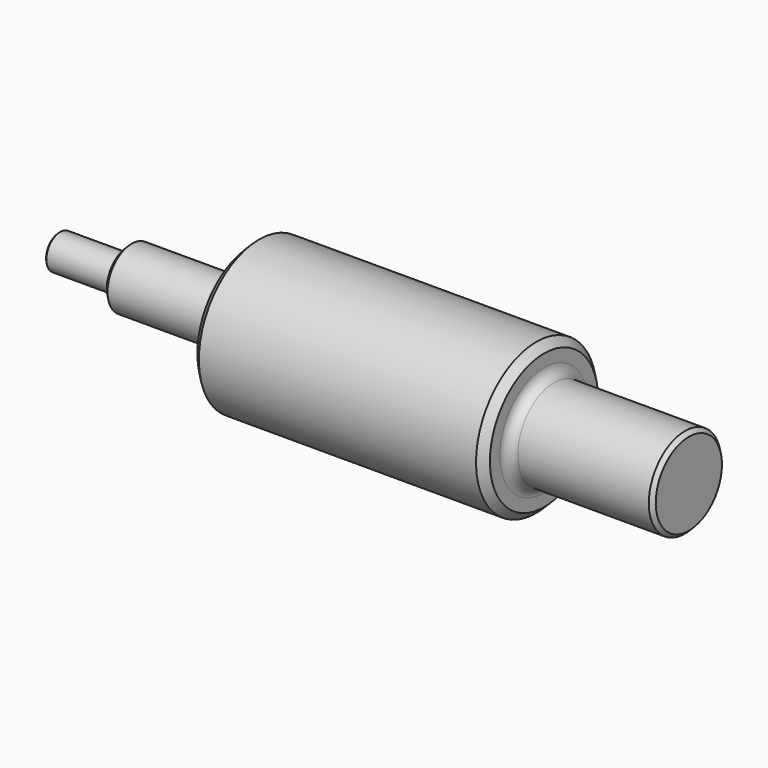
from build123d import *

# Parameters (mm, degrees)
F2_SIZE = 2.54
F3_SIZE = 2.54
F4_SIZE = 1.27
F5_SIZE = 0.508
F6_SIZE = 1.27


with BuildPart() as f1:
    # F0 (on Front) → F1 (revolve)
    with BuildSketch(Plane.XZ):
        with BuildLine():
            Line((-58.015915, 9.94281), (-95.500656, 9.94281))
            Line((-95.500656, 9.94281), (-95.500656, 7.037411))
            ThreePointArc((-95.500656, 7.037411), (-95.887981, 6.102325), (-96.823067, 5.715))
            Line((-96.823067, 5.715), (-118.297269, 5.715))
            Line((-118.297269, 5.715), (-118.297269, 0))
            Line((-118.297269, 0), (89.53189, 0))
            Line((89.53189, 0), (89.53189, 14.916802))
            Line((89.53189, 14.916802), (45.083549, 14.916802))
            ThreePointArc((45.083549, 14.916802), (42.748683, 15.883936), (41.781549, 18.218802))
            Line((41.781549, 18.218802), (41.781549, 24.864788))
            Line((41.781549, 24.864788), (-54.713915, 24.864788))
            Line((-54.713915, 24.864788), (-54.713915, 13.24481))
            ThreePointArc((-54.713915, 13.24481), (-55.681049, 10.909944), (-58.015915, 9.94281))
        make_face()
    revolve(axis=Axis((-14.38269, 0, 0), (1, 0, 0)))

    # F2
    f2_edges = [f1.edges().sort_by_distance(p)[0] for p in [
        (41.781549, 0, -24.864788),
    ]]
    chamfer(f2_edges, length=F2_SIZE)

    # F3
    f3_edges = [f1.edges().sort_by_distance(p)[0] for p in [
        (-54.713915, 0, -24.864788),
    ]]
    chamfer(f3_edges, length=F3_SIZE)

    # F4
    f4_edges = [f1.edges().sort_by_distance(p)[0] for p in [
        (-95.500656, 0, -9.94281),
    ]]
    chamfer(f4_edges, length=F4_SIZE)

    # F5
    f5_edges = [f1.edges().sort_by_distance(p)[0] for p in [
        (-118.297269, 0, -5.715),
    ]]
    chamfer(f5_edges, length=F5_SIZE)

    # F6
    f6_edges = [f1.edges().sort_by_distance(p)[0] for p in [
        (89.53189, 0, -14.916802),
    ]]
    chamfer(f6_edges, length=F6_SIZE)


solid = f1.part
